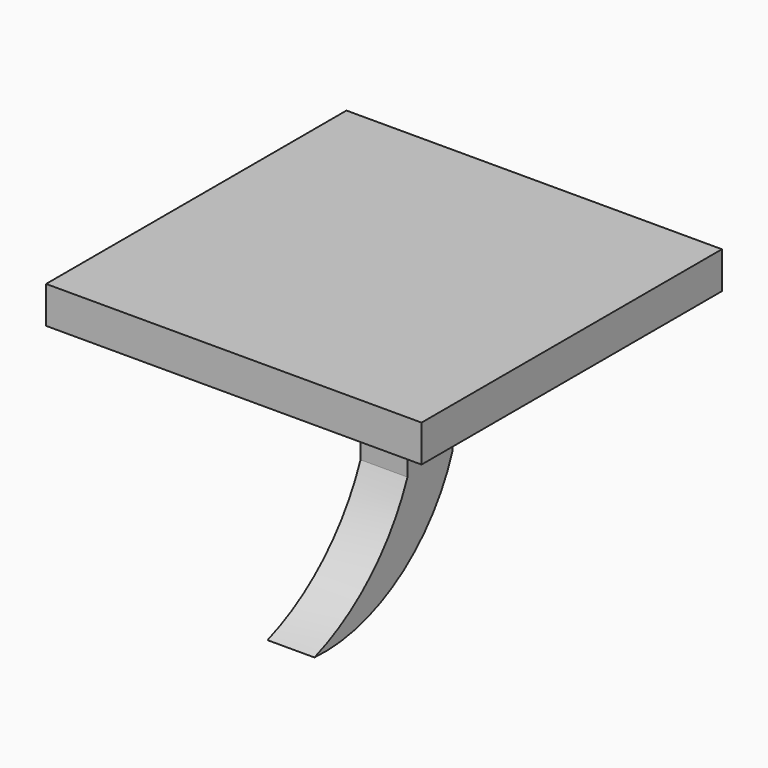
from build123d import *

# Parameters (mm, degrees)
F0_W     = 50.8
F0_H     = 50.8
F1_DEPTH = 5
F2_W     = 7.62
F2_H     = 19.05
F3_DEPTH = 3.175
F4_DEPTH = 3.175


with BuildPart() as f1:
    # F0 (on Top) → F1 (new body)
    with BuildSketch(Plane.XY):
        Rectangle(F0_W, F0_H)
    extrude(amount=F1_DEPTH)

    # F2 (on Right) → F3 (join)
    with BuildSketch(Plane.YZ):
        with Locations((3.81, -9.525)):
            Rectangle(F2_W, F2_H)
        with BuildLine():
            Line((7.62, -19.05), (0, -19.05))
            ThreePointArc((0, -19.05), (-6.23626, -28.293401), (-15.736038, -34.131691))
            ThreePointArc((-15.736038, -34.131691), (-1.531188, -30.503985), (7.62, -19.05))
        make_face()
    extrude(amount=F3_DEPTH)

    # F3_face (on face) → F4 (join)
    with BuildSketch(Plane(origin=(0, 1.478785, -16.812589), x_dir=(0, 1, 0), z_dir=(-1, 0, 0))):
        with BuildLine():
            Line((-1.478785, -16.812589), (6.141215, -16.812589))
            Line((6.141215, -16.812589), (6.141215, 2.237411))
            ThreePointArc((6.141215, 2.237411), (-3.009973, 13.691396), (-17.214823, 17.319102))
            ThreePointArc((-17.214823, 17.319102), (-7.715045, 11.480812), (-1.478785, 2.237411))
            Line((-1.478785, 2.237411), (-1.478785, -16.812589))
        make_face()
    extrude(amount=F4_DEPTH)


solid = f1.part
